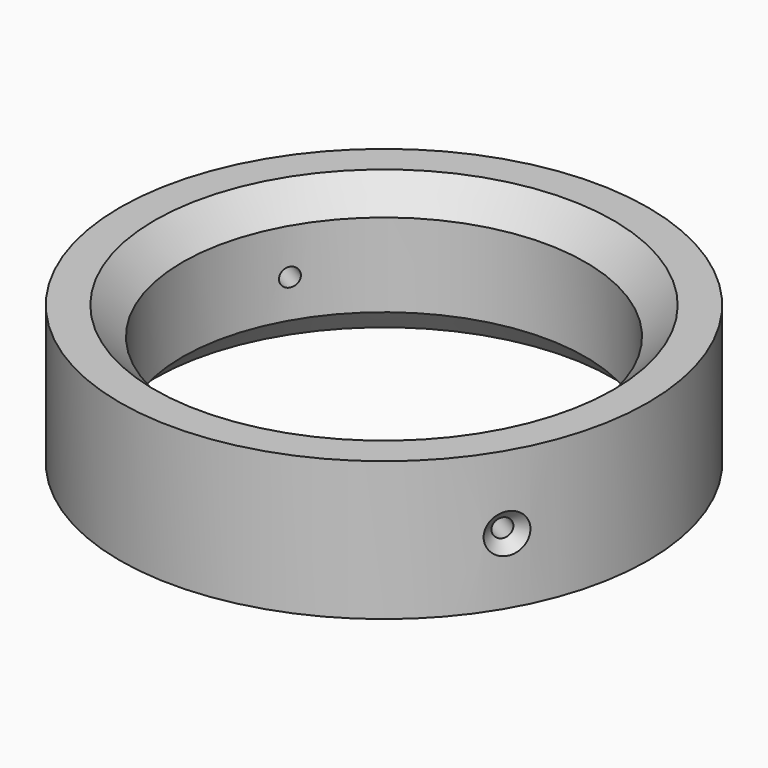
from build123d import *

# Parameters (mm, degrees)
SKETCH008_R     = 38
PAD002_DEPTH    = 20
SKETCH009_R     = 29
POCKET006_DEPTH = 20
CHAMFER002_SIZE = 4
SKETCH010_R     = 1.325
POCKET007_DEPTH = 89.897221
CHAMFER003_SIZE = 1.5


with BuildPart() as part:
    # Sketch008 → Pad002 (new body)
    with BuildSketch(Plane.XY):
        Circle(SKETCH008_R)
    extrude(amount=PAD002_DEPTH)

    # Sketch009 (on Face3 of Pad002) → Pocket006 (cut)
    with BuildSketch(Plane.XY.offset(20)):
        Circle(SKETCH009_R)
    extrude(amount=-POCKET006_DEPTH, mode=Mode.SUBTRACT)

    # Chamfer002
    chamfer002_edges = [part.edges().sort_by_distance(p)[0] for p in [
        (-29, 0, 20),
        (-29, 0, 0),
    ]]
    chamfer(chamfer002_edges, length=CHAMFER002_SIZE)

    # Sketch010 (on DatumPlane) → Pocket007 (cut, through all)
    with BuildSketch(Plane(origin=(32.92633, -18.969891, 0), x_dir=(0.499208, 0.866482, 0), z_dir=(0.866482, -0.499208, 0))):
        with Locations((0, 9.480728)):
            Circle(SKETCH010_R)
    extrude(amount=-POCKET007_DEPTH, mode=Mode.SUBTRACT)

    # Chamfer003
    chamfer003_edges = [part.edges().sort_by_distance(p)[0] for p in [
        (33.384037, -18.152303, 8.543812),
        (-33.567758, 17.810267, 9.480728),
    ]]
    chamfer(chamfer003_edges, length=CHAMFER003_SIZE)


solid = part.part
